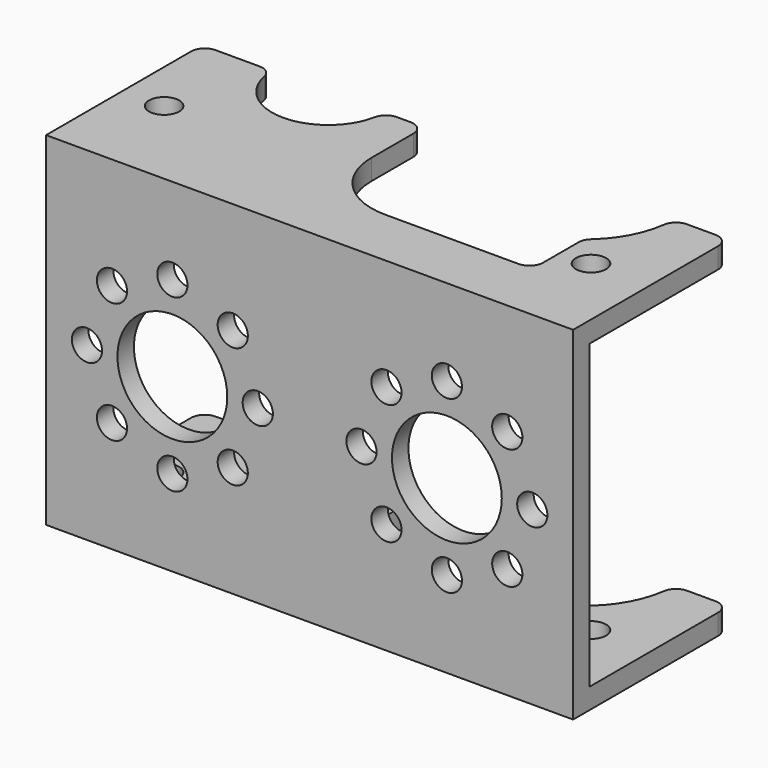
from build123d import *

# Parameters (mm, degrees)
F0_W     = 38.4
F0_H     = 28.4
F0_R     = 1.1
F0_R_2   = 4.1
F1_DEPTH = 1.5
F2_W     = 38.4
F2_H     = 1.5
F3_DEPTH = 22
F6_W     = 38.4
F6_H     = 14.2
F7_DEPTH = 25.001
F8_R     = 4
F8_R_2   = 1.1
F9_DEPTH = 1.5
F10_R    = 1


with BuildPart() as f1:
    # F0 (on Top) → F1 (new body)
    with BuildSketch(Plane.XY):
        Rectangle(F0_W, F0_H)
        with Locations((-16.2, -7.2)):
            Circle(F0_R, mode=Mode.SUBTRACT)
        with Locations((14.9, -7.2)):
            Circle(F0_R, mode=Mode.SUBTRACT)
        with Locations((-10, 0)):
            Circle(F0_R_2, mode=Mode.SUBTRACT)
        with Locations((-16.2, 7.2)):
            Circle(F0_R, mode=Mode.SUBTRACT)
        with BuildLine():
            ThreePointArc((-3, 4.8), (-1.5355339059, 8.3355339059), (2, 9.8))
            Line((2, 9.8), (11.7, 9.8))
            ThreePointArc((11.7, 9.8), (12.4071067812, 9.5071067812), (12.7, 8.8))
            Line((12.7, 8.8), (12.7, 5.5901699437))
            ThreePointArc((12.7, 5.5901699437), (12.7871290708, 5.1819216533), (13.0333333333, 4.8448139512))
            ThreePointArc((13.0333333333, 4.8448139512), (15.2, 0), (13.0333333333, -4.8448139512))
            ThreePointArc((13.0333333333, -4.8448139512), (12.7871290708, -5.1819216533), (12.7, -5.5901699437))
            Line((12.7, -5.5901699437), (12.7, -8.8))
            ThreePointArc((12.7, -8.8), (12.4071067812, -9.5071067812), (11.7, -9.8))
            Line((11.7, -9.8), (2, -9.8))
            ThreePointArc((2, -9.8), (-1.5355339059, -8.3355339059), (-3, -4.8))
            Line((-3, -4.8), (-3, 4.8))
        make_face(mode=Mode.SUBTRACT)
        with Locations((14.9, 7.2)):
            Circle(F0_R, mode=Mode.SUBTRACT)
    extrude(amount=F1_DEPTH)

    # F2 (on face) → F3 (join)
    with BuildSketch(Plane(origin=(0, 0, 0), x_dir=(1, 0, 0), z_dir=(0, 0, -1))):
        with Locations((0, 13.45)):
            Rectangle(F2_W, F2_H)
    extrude(amount=F3_DEPTH)

    # F5: F1 across plane


with BuildPart() as f1_1:
    add(f1.part)
    add(f1.part.mirror(Plane.XY.offset(-11)))

    # F6 (on face) → F7 (cut, through all)
    with BuildSketch(Plane(origin=(0, 0, -23.5), x_dir=(1, 0, 0), z_dir=(0, 0, -1))):
        with Locations((0, -7.1)):
            Rectangle(F6_W, F6_H)
    extrude(amount=-F7_DEPTH, mode=Mode.SUBTRACT)

    # F8 (on face) → F9 (cut, through all)
    with BuildSketch(Plane.XZ.offset(14.2)):
        with Locations((-10, -11)):
            Circle(F8_R)
        with Locations((-5.6, -6.6)):
            Circle(F8_R_2)
        with Locations((-10, -4.7774603256)):
            Circle(F8_R_2)
        with Locations((-14.4, -6.6)):
            Circle(F8_R_2)
        with Locations((-16.2225396744, -11)):
            Circle(F8_R_2)
        with Locations((-14.4, -15.4)):
            Circle(F8_R_2)
        with Locations((-10, -17.2225396744)):
            Circle(F8_R_2)
        with Locations((-5.6, -15.4)):
            Circle(F8_R_2)
        with Locations((-3.7774603256, -11)):
            Circle(F8_R_2)
        with Locations((10, -4.7774603256)):
            Circle(F8_R_2)
        with Locations((14.4, -15.4)):
            Circle(F8_R_2)
        with Locations((3.7774603256, -11)):
            Circle(F8_R_2)
        with Locations((16.2225396744, -11)):
            Circle(F8_R_2)
        with Locations((5.6, -15.4)):
            Circle(F8_R_2)
        with Locations((14.4, -6.6)):
            Circle(F8_R_2)
        with Locations((10, -17.2225396744)):
            Circle(F8_R_2)
        with Locations((10, -11)):
            Circle(F8_R)
        with Locations((5.6, -6.6)):
            Circle(F8_R_2)
    extrude(amount=-F9_DEPTH, mode=Mode.SUBTRACT)

    # F10
    f10_edges = [f1_1.edges().sort_by_distance(p)[0] for p in [
        (-19.2, 0, -22.75),
        (-19.2, 0, 0.75),
        (-5.9, 0, 0.75),
        (-14.1, 0, 0.75),
        (-5.9, 0, -22.75),
        (-14.1, 0, -22.75),
        (-3, 0, -22.75),
        (15.2, 0, -22.75),
        (15.2, 0, 0.75),
        (19.2, 0, -22.75),
        (19.2, 0, 0.75),
        (-3, 0, 0.75),
    ]]
    fillet(f10_edges, radius=F10_R)


solid = f1_1.part
